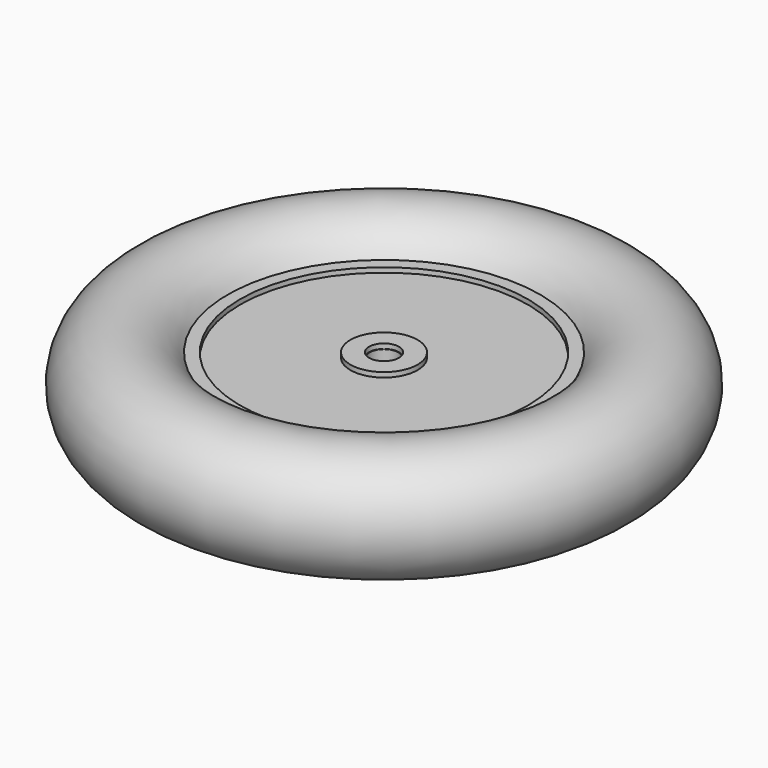
from build123d import *

# Parameters (mm, degrees)
F0_R     = 63.5
F0_R_2   = 6.35
F1_DEPTH = 6.35
F4_W     = 8.188898
F4_H     = 15.86599


with BuildPart() as f1:
    # F0 (on Top) → F1 (new body)
    with BuildSketch(Plane.XY):
        Circle(F0_R)
        Circle(F0_R_2, mode=Mode.SUBTRACT)
    extrude(amount=F1_DEPTH)

    # F4 (on Right) → F5 (revolve)
    with BuildSketch(Plane.YZ):
        with Locations((-10.728171, 0.54023)):
            Rectangle(F4_W, F4_H)
    revolve(axis=Axis((0, 0, 6.35), (0, 0, 1)))


with BuildPart() as f3:
    # F2 (on Right) → F3 (revolve)
    with BuildSketch(Plane.YZ):
        with BuildLine():
            ThreePointArc((-68.982586, -16.173538), (-66.607303, -10.21938), (-65.798366, -3.860166))
            ThreePointArc((-65.798366, -3.860166), (-66.607303, 2.499047), (-68.982586, 8.453205))
            Line((-68.982586, 8.453205), (-68.982586, -16.173538))
        make_face()
        with BuildLine():
            Line((-68.982586, -16.173538), (-68.982586, 8.453205))
            ThreePointArc((-68.982586, 8.453205), (-116.598366, -3.860166), (-68.982586, -16.173538))
        make_face()
        with BuildLine():
            ThreePointArc((-68.982586, 8.453205), (-66.607303, 2.499047), (-65.798366, -3.860166))
            ThreePointArc((-65.798366, -3.860166), (-66.607303, -10.21938), (-68.982586, -16.173538))
            Line((-68.982586, -16.173538), (-63.52222, -16.173538))
            Line((-63.52222, -16.173538), (-63.52222, 8.453205))
            Line((-63.52222, 8.453205), (-68.982586, 8.453205))
        make_face()
    revolve(axis=Axis((0, 0, 0), (0, 0, -1)))


solid = Compound([f1.part, f3.part])
